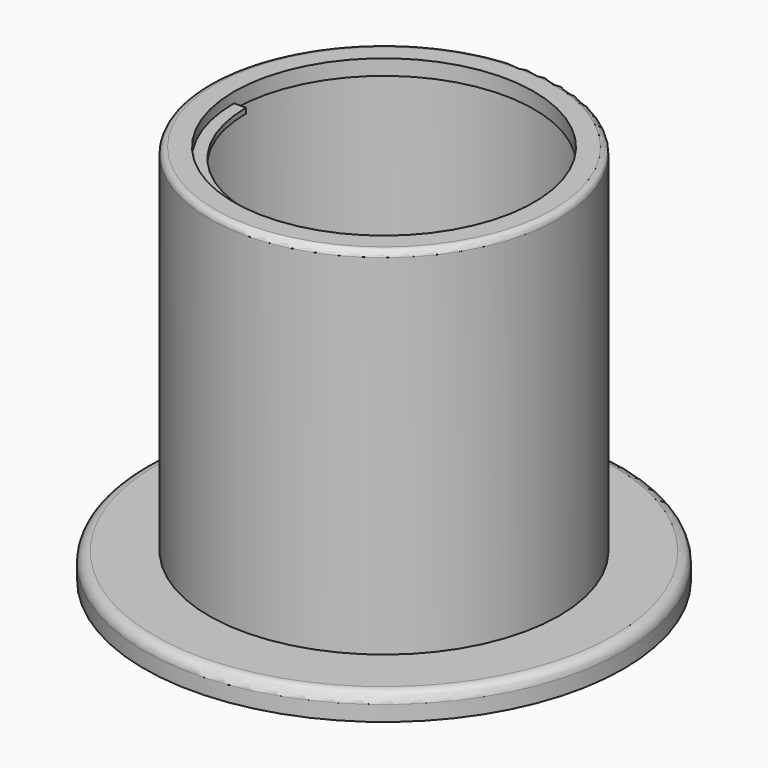
from build123d import *

# Parameters (mm, degrees)
F0_R     = 43.18
F1_DEPTH = 90.17
F0_R_2   = 59.055
F2_DEPTH = 6.35
F3_T     = -2.54
F4_R     = 43.18
F5_DEPTH = 3.81
F7_DEPTH = 3.81
F8_DEPTH = 2.54
F9_R     = 2.54
F10_R    = 1.524


with BuildPart() as f1:
    # F0 (on Top) → F1 (new body)
    with BuildSketch(Plane.XY):
        Circle(F0_R)
    extrude(amount=F1_DEPTH)

    # F0 (on Top) → F2 (join)
    with BuildSketch(Plane.XY):
        Circle(F0_R_2)
        Circle(F0_R, mode=Mode.SUBTRACT)
    extrude(amount=F2_DEPTH)

    # F3
    f3_openings = [f1.faces().sort_by_distance(p)[0] for p in [
        (0, 0, 90.17),
    ]]
    offset(amount=F3_T, openings=f3_openings, kind=Kind.INTERSECTION)

    # F4 (on face) → F5 (join)
    with BuildSketch(Plane.XY.offset(90.17)):
        Circle(F4_R)
    extrude(amount=F5_DEPTH)

    # F6 (on face) → F7 (cut, through all)
    with BuildSketch(Plane.XY.offset(93.98)):
        with BuildLine():
            ThreePointArc((-33.986308275, 0), (0, -33.986308275), (33.986308275, 0))
            ThreePointArc((33.986308275, 0), (0, 33.986308275), (-33.986308275, 0))
        make_face()
        with BuildLine():
            Line((33.986308275, 0), (36.9492512699, 0))
            ThreePointArc((36.9492512699, 0), (0, 36.9492512699), (-36.9492512699, 0))
            Line((-36.9492512699, 0), (-33.986308275, 0))
            ThreePointArc((-33.986308275, 0), (0, 33.986308275), (33.986308275, 0))
        make_face()
    extrude(amount=-F7_DEPTH, mode=Mode.SUBTRACT)

    # F6 (on face) → F8 (cut)
    with BuildSketch(Plane.XY.offset(93.98)):
        with BuildLine():
            ThreePointArc((-36.9492512699, 0), (0, -36.9492512699), (36.9492512699, 0))
            Line((36.9492512699, 0), (33.986308275, 0))
            ThreePointArc((33.986308275, 0), (0, -33.986308275), (-33.986308275, 0))
            Line((-33.986308275, 0), (-36.9492512699, 0))
        make_face()
    extrude(amount=-F8_DEPTH, mode=Mode.SUBTRACT)

    # F9
    f9_edges = [f1.edges().sort_by_distance(p)[0] for p in [
        (-59.055, 0, 6.35),
    ]]
    fillet(f9_edges, radius=F9_R)

    # F10
    f10_edges = [f1.edges().sort_by_distance(p)[0] for p in [
        (-43.18, 0, 93.98),
    ]]
    fillet(f10_edges, radius=F10_R)


solid = f1.part
